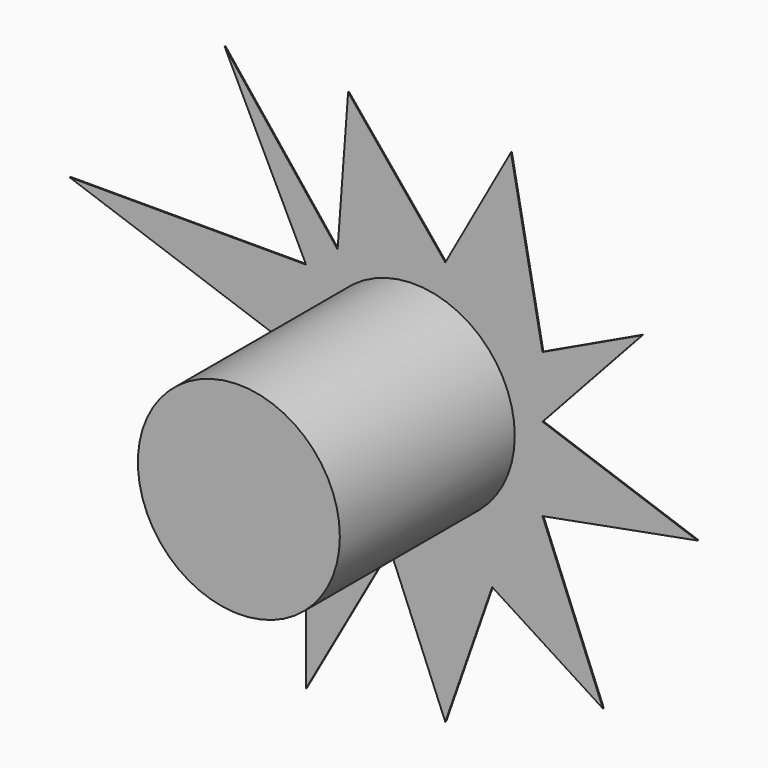
from build123d import *

# Parameters (mm, degrees)
F0_R     = 11.674481
F1_DEPTH = 25.4
F3_DEPTH = 0.127


with BuildPart() as f1:
    # F0 (on Front) → F1 (new body)
    with BuildSketch(Plane.XZ):
        Circle(F0_R)
    extrude(amount=F1_DEPTH)

    # F2 (on Front) → F3 (join)
    with BuildSketch(Plane.XZ):
        Polygon((-7.591081, 28.694289), (-8.805655, 12.297552), (-21.862315, 28.694289), (-12.449373, 9.564763), (-39.777268, 9.564763), (-12.449373, 0), (-29.75704, -20.192277), (-12.449373, -10.475693), (-12.449373, -33.55258), (-2.73279, -16.244914), (3.64372, -31.730723), (9.063753, -16.244914), (21.862315, -24.443282), (14.878519, -7.135617), (32.79347, -3.795541), (14.878519, 2.474692), (26.416963, 15.030341), (14.878519, 9.564763), (11.2348, 28.694289), (3.64372, 15.030341), align=None)
    extrude(amount=F3_DEPTH)


solid = f1.part
